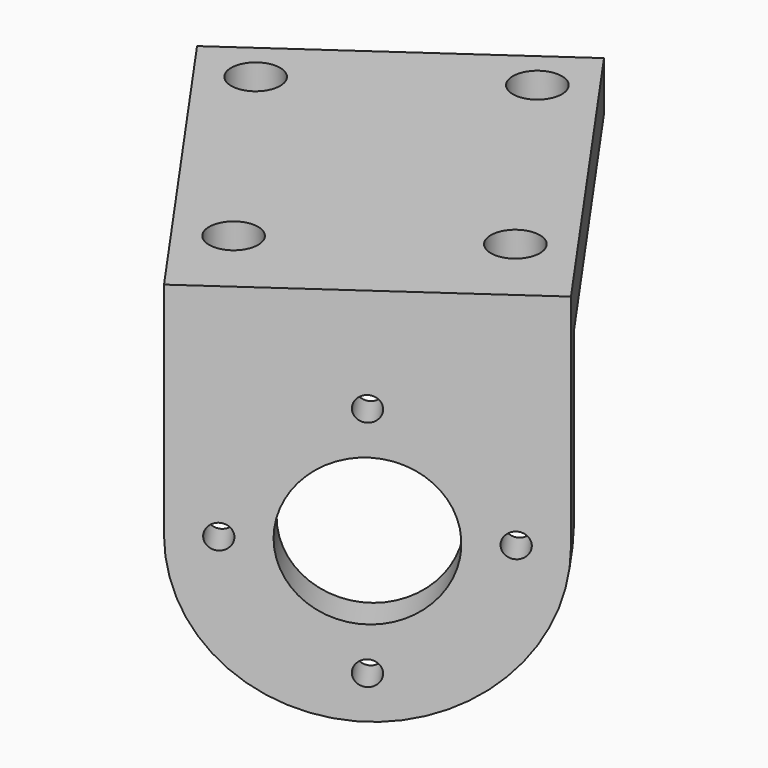
from build123d import *

# Parameters (mm, degrees)
SKETCH092_R             = 6
PAD066_DEPTH            = 3
SKETCH093_W             = 26
SKETCH093_H             = 4
PAD067_DEPTH            = 30
SKETCH094_R             = 2
POCKET034_DEPTH         = 31.001
SKETCH095_R             = 1
POCKET035_DEPTH         = 137.42322
POLARPATTERN014_COUNT   = 4
BODY040_PLACEMENT_ANGLE = 215


with BuildPart() as part:
    # Sketch092 → Pad066 (new body)
    with BuildSketch(Plane.XZ):
        with BuildLine():
            Line((-13, 18), (13, 18))
            Line((13, 18), (13, 0))
            ThreePointArc((-13, 0), (0, -13), (13, 0))
            Line((-13, 18), (-13, 0))
        make_face()
        Circle(SKETCH092_R, mode=Mode.SUBTRACT)
    extrude(amount=PAD066_DEPTH)

    # Sketch093 (on Face7 of Pad066) → Pad067 (join)
    with BuildSketch(Plane.XZ.offset(3)):
        with Locations((0, 16)):
            Rectangle(SKETCH093_W, SKETCH093_H)
    extrude(amount=PAD067_DEPTH)

    # Sketch094 (on Face5 of Pad067) → Pocket034 (cut, through all)
    with BuildSketch(Plane(origin=(0, 0, 18), x_dir=(-1, 0, 0), z_dir=(0, 0, 1))):
        with Locations((-9, 7)):
            Circle(SKETCH094_R)
        with Locations((9, 7)):
            Circle(SKETCH094_R)
        with Locations((-9, 29)):
            Circle(SKETCH094_R)
        with Locations((9, 29)):
            Circle(SKETCH094_R)
    extrude(amount=-POCKET034_DEPTH, mode=Mode.SUBTRACT)

    # Sketch095 (on Face4 of Pocket034) → Pocket035 (cut, through all)
    with BuildSketch(Plane(origin=(0, 0, 0), x_dir=(1, 0, 0), z_dir=(0, 1, 0))):
        with Locations((0, 9.5)):
            Circle(SKETCH095_R)
    pocket035 = extrude(amount=-POCKET035_DEPTH, mode=Mode.SUBTRACT)

    # PolarPattern014: Pocket035 ×4 about axis
    polarpattern014_axis = Axis((0, 0, 0), (0, 1, 0))
    for i in range(1, POLARPATTERN014_COUNT):
        add(pocket035.rotate(polarpattern014_axis, i * 360 / POLARPATTERN014_COUNT), mode=Mode.SUBTRACT)


with BuildPart() as part_1:
    # Body040 placement: moved
    add(part.part.moved(Location((43.591809, -62.255555, -8))).rotate(Axis((43.591809, -62.255555, -8), (0, 0, 1)), BODY040_PLACEMENT_ANGLE))


solid = part_1.part
